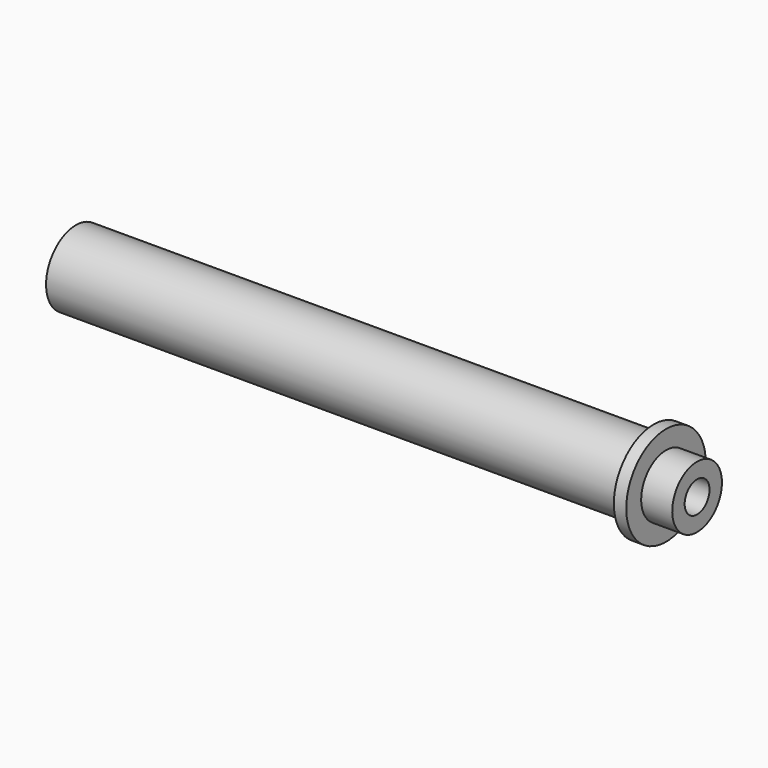
from build123d import *

# Parameters (mm, degrees)
F0_W   = 93
F0_H   = 3.5
F0_W_2 = 5
F0_H_2 = 2.5


with BuildPart() as f1:
    # F0 (on Front) → F1 (revolve)
    with BuildSketch(Plane.XZ):
        with Locations((10.636313, 30.020149)):
            Rectangle(F0_W, F0_H)
        Polygon((57.136313, 31.770149), (57.136313, 28.270149), (59.136313, 28.270149), (59.136313, 30.770149), (59.136313, 33.770149), (57.136313, 33.770149), align=None)
        with Locations((61.636313, 29.520149)):
            Rectangle(F0_W_2, F0_H_2)
    revolve(axis=Axis((9.848064, 0, 25.770149), (1, 0, 0)))


solid = f1.part
